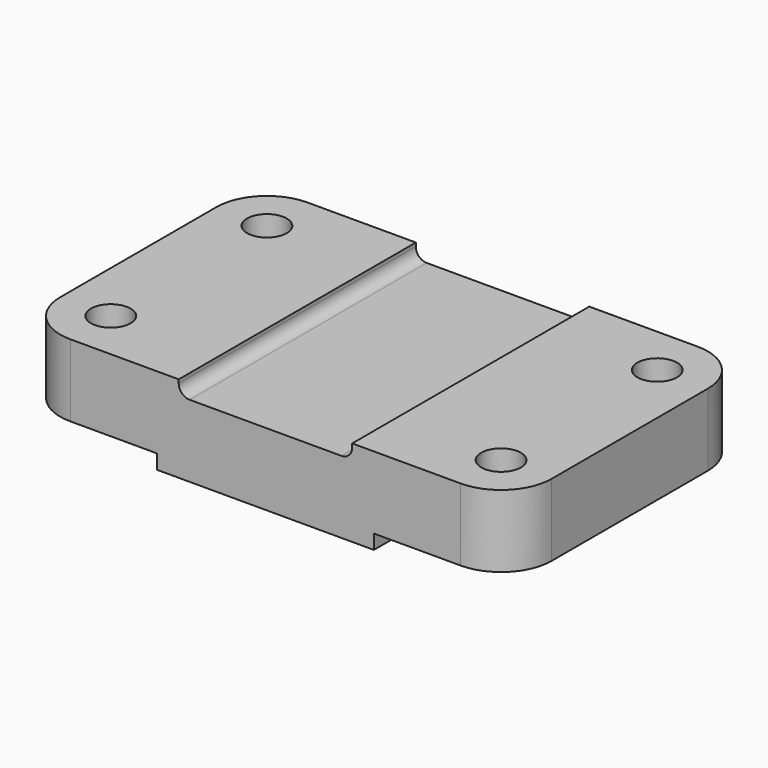
from build123d import *

# Parameters (mm, degrees)
F0_W     = 136
F0_H     = 82
F1_DEPTH = 24
F2_R     = 14
F3_W     = 48
F3_H     = 4
F4_DEPTH = 82.001
F5_R     = 3
F6_W     = 38
F6_H     = 4
F7_DEPTH = 82.001
F8_R     = 5.5
F9_DEPTH = 24.001


with BuildPart() as f1:
    # F0 (on Top) → F1 (new body)
    with BuildSketch(Plane.XY):
        with Locations((68, 41)):
            Rectangle(F0_W, F0_H)
    extrude(amount=F1_DEPTH)

    # F2
    f2_edges = [f1.edges().sort_by_distance(p)[0] for p in [
        (0, 0, 12),
        (136, 0, 12),
        (136, 82, 12),
        (0, 82, 12),
    ]]
    fillet(f2_edges, radius=F2_R)

    # F3 (on Front) → F4 (cut, through all)
    with BuildSketch(Plane.XZ):
        with Locations((68, 22)):
            Rectangle(F3_W, F3_H)
    extrude(amount=-F4_DEPTH, mode=Mode.SUBTRACT)

    # F5
    f5_edges = [f1.edges().sort_by_distance(p)[0] for p in [
        (44, 41, 20),
        (92, 41, 20),
    ]]
    fillet(f5_edges, radius=F5_R)

    # F6 (on Front) → F7 (cut, through all)
    with BuildSketch(Plane.XZ):
        with Locations((19, 2)):
            Rectangle(F6_W, F6_H)
        with Locations((117, 2)):
            Rectangle(F6_W, F6_H)
    extrude(amount=-F7_DEPTH, mode=Mode.SUBTRACT)

    # F8 (on face) → F9 (cut, through all)
    with BuildSketch(Plane.XY.offset(24)):
        with Locations((14, 68)):
            Circle(F8_R)
        with Locations((14, 14)):
            Circle(F8_R)
        with Locations((122, 68)):
            Circle(F8_R)
        with Locations((122, 14)):
            Circle(F8_R)
    extrude(amount=-F9_DEPTH, mode=Mode.SUBTRACT)


solid = f1.part
